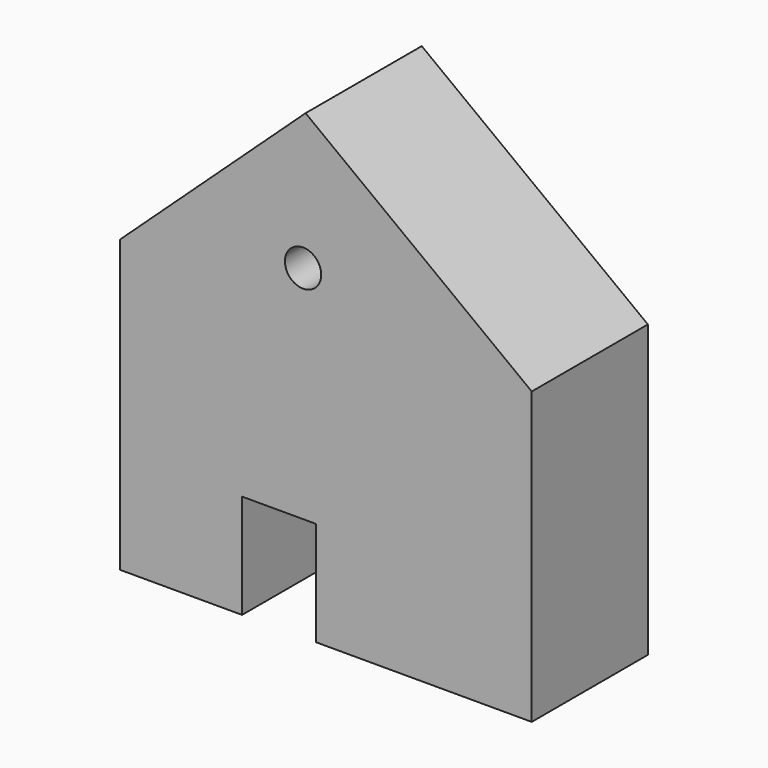
from build123d import *

# Parameters (mm, degrees)
F1_DEPTH = 25.4
F3_D     = 6.35


with BuildPart() as f1:
    # F0 (on Front) → F1 (new body)
    with BuildSketch(Plane.XZ):
        Polygon((7.5564994477, 50.2284988761), (-24.8920004815, 20.224750042), (47.1170023084, 20.224750042), align=None)
        Polygon((47.1170023084, 20.224750042), (-24.8920004815, 20.224750042), (-24.8920004815, -30.6704994291), (-3.5560000688, -30.6704994291), (-3.5560000688, -12.4460002407), (9.3344990164, -12.4460002407), (9.3344990164, -30.6704994291), (47.1170023084, -30.6704994291), align=None)
    extrude(amount=F1_DEPTH)

    # F3 (through all)
    with Locations(Plane(origin=(0, 0, 0), x_dir=(1, 0, 0), z_dir=(0, 1, 0))):
        with Locations((7.1120006032, -26.2254998088)):
            Hole(F3_D / 2)


solid = f1.part
